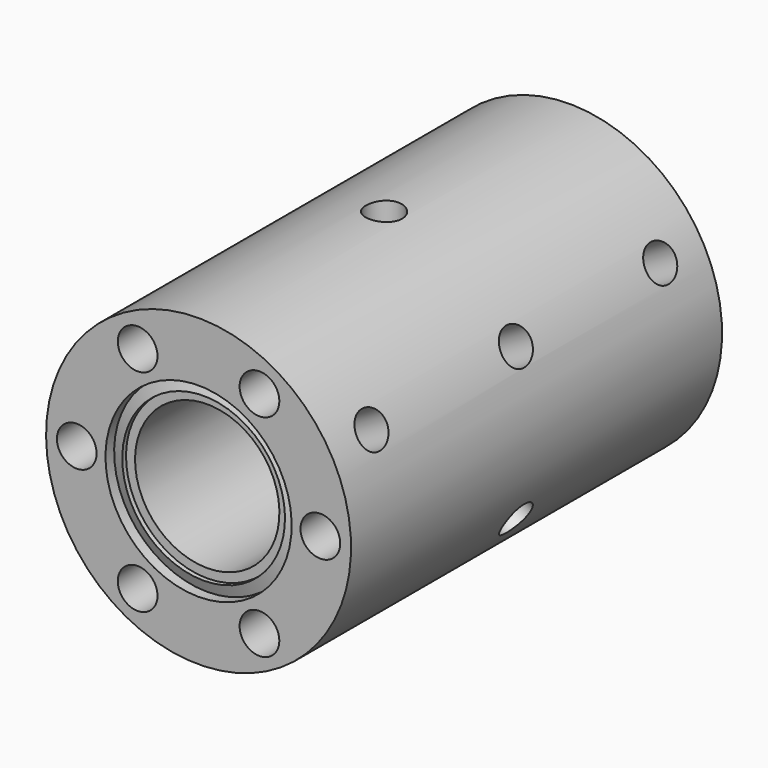
from build123d import *

# Parameters (mm, degrees)
CYLINDER011_R               = 2
CYLINDER011_DEPTH           = 10
CYLINDER010_R               = 2
CYLINDER010_DEPTH           = 10
CYLINDER009_R               = 2
CYLINDER009_DEPTH           = 10
CYLINDER009_PLACEMENT_ANGLE = -8.000003
CYLINDER008_R               = 2
CYLINDER008_DEPTH           = 10
CYLINDER007_R               = 2
CYLINDER007_DEPTH           = 10
CYLINDER006_R               = 2
CYLINDER006_DEPTH           = 10
CYLINDER005_R               = 2
CYLINDER005_DEPTH           = 10
CYLINDER004_R               = 2
CYLINDER004_DEPTH           = 10
CYLINDER003_R               = 2
CYLINDER003_DEPTH           = 10
CYLINDER002_R               = 2
CYLINDER002_DEPTH           = 10
CYLINDER001_R               = 2
CYLINDER001_DEPTH           = 10
CYLINDER001_PLACEMENT_ANGLE = 9.999992
CYLINDER_R                  = 2
CYLINDER_DEPTH              = 10
SKETCH001_R                 = 2.2
POCKET_DEPTH                = 5
SKETCH002_R                 = 2.2
POCKET001_DEPTH             = 5
CUT_PLACEMENT_ANGLE         = 119.999977
CUT001_PLACEMENT_ANGLE      = 119.999977
CUT003_PLACEMENT_ANGLE      = 119.999977
CUT004_PLACEMENT_ANGLE      = 119.999977
CUT006_PLACEMENT_ANGLE      = 119.999977
CUT007_PLACEMENT_ANGLE      = 119.999977
CUT008_PLACEMENT_ANGLE      = 60.000023
CUT009_PLACEMENT_ANGLE      = 119.999977
CUT010_PLACEMENT_ANGLE      = 119.999977


with BuildPart() as cylinder011:
    # Cylinder011 → Cylinder011 (new body)
    with BuildSketch(Plane.XY.offset(10)):
        Circle(CYLINDER011_R)
    extrude(amount=CYLINDER011_DEPTH)


with BuildPart() as cylinder010:
    # Cylinder010 → Cylinder010 (new body)
    with BuildSketch(Plane.XY.offset(10)):
        Circle(CYLINDER010_R)
    extrude(amount=CYLINDER010_DEPTH)


with BuildPart() as cylinder009:
    # Cylinder009 → Cylinder009 (new body)
    with BuildSketch(Plane.XY):
        Circle(CYLINDER009_R)
    extrude(amount=CYLINDER009_DEPTH)


with BuildPart() as cylinder009_1:
    # Cylinder009 placement: moved
    add(cylinder009.part.moved(Location((0, 0, 10))).rotate(Axis((0, 0, 10), (0, 0, 1)), CYLINDER009_PLACEMENT_ANGLE))


with BuildPart() as cylinder008:
    # Cylinder008 → Cylinder008 (new body)
    with BuildSketch(Plane(origin=(0, -20, 10), x_dir=(1, 0, 0), z_dir=(0, 0, 1))):
        Circle(CYLINDER008_R)
    extrude(amount=CYLINDER008_DEPTH)


with BuildPart() as cylinder007:
    # Cylinder007 → Cylinder007 (new body)
    with BuildSketch(Plane(origin=(0, -20, 10), x_dir=(1, 0, 0), z_dir=(0, 0, 1))):
        Circle(CYLINDER007_R)
    extrude(amount=CYLINDER007_DEPTH)


with BuildPart() as cylinder006:
    # Cylinder006 → Cylinder006 (new body)
    with BuildSketch(Plane(origin=(0, -20, 10), x_dir=(1, 0, 0), z_dir=(0, 0, 1))):
        Circle(CYLINDER006_R)
    extrude(amount=CYLINDER006_DEPTH)


with BuildPart() as cylinder005:
    # Cylinder005 → Cylinder005 (new body)
    with BuildSketch(Plane(origin=(0, 20, 10), x_dir=(1, 0, 0), z_dir=(0, 0, 1))):
        Circle(CYLINDER005_R)
    extrude(amount=CYLINDER005_DEPTH)


with BuildPart() as cylinder004:
    # Cylinder004 → Cylinder004 (new body)
    with BuildSketch(Plane(origin=(0, 20, 10), x_dir=(1, 0, 0), z_dir=(0, 0, 1))):
        Circle(CYLINDER004_R)
    extrude(amount=CYLINDER004_DEPTH)


with BuildPart() as cylinder003:
    # Cylinder003 → Cylinder003 (new body)
    with BuildSketch(Plane(origin=(0, 20, 10), x_dir=(1, 0, 0), z_dir=(0, 0, 1))):
        Circle(CYLINDER003_R)
    extrude(amount=CYLINDER003_DEPTH)


with BuildPart() as cylinder002:
    # Cylinder002 → Cylinder002 (new body)
    with BuildSketch(Plane.XY.offset(10)):
        Circle(CYLINDER002_R)
    extrude(amount=CYLINDER002_DEPTH)


with BuildPart() as cylinder001:
    # Cylinder001 → Cylinder001 (new body)
    with BuildSketch(Plane.XY):
        Circle(CYLINDER001_R)
    extrude(amount=CYLINDER001_DEPTH)


with BuildPart() as cylinder001_1:
    # Cylinder001 placement: moved
    add(cylinder001.part.moved(Location((0, 0, 10))).rotate(Axis((0, 0, 10), (0, 0, 1)), CYLINDER001_PLACEMENT_ANGLE))


with BuildPart() as cylinder:
    # Cylinder → Cylinder (new body)
    with BuildSketch(Plane.XY.offset(10)):
        Circle(CYLINDER_R)
    extrude(amount=CYLINDER_DEPTH)


with BuildPart() as cut011:
    # Sketch → Revolution (revolve)
    with BuildSketch(Plane.YZ):
        Polygon((-24.5, 8), (-24.5, 9), (-25, 9.01746), (-24.5, 10.31746), (-25.7, 10.31746), (-25.7, 16.9), (25.7, 16.9), (25.7, 10.31746), (24.5, 10.31746), (25, 9.01746), (24.5, 9), (24.5, 8), align=None)
    revolve(axis=Axis((0, 0, 0), (0, 1, 0)))

    # Sketch001 → Pocket (cut)
    with BuildSketch(Plane(origin=(0, -25.7, 0), x_dir=(0, 0, -1), z_dir=(0, -1, 0))):
        with Locations((-11.691342, 6.750002)):
            Circle(SKETCH001_R)
        with Locations((-11.691342, -6.750002)):
            Circle(SKETCH001_R)
        with Locations((0, -13.5)):
            Circle(SKETCH001_R)
        with Locations((11.691342, -6.750002)):
            Circle(SKETCH001_R)
        with Locations((11.691342, 6.750002)):
            Circle(SKETCH001_R)
        with Locations((0, 13.5)):
            Circle(SKETCH001_R)
    extrude(amount=-POCKET_DEPTH, mode=Mode.SUBTRACT)

    # Sketch002 → Pocket001 (cut)
    with BuildSketch(Plane.ZX.offset(25.7)):
        with Locations((0, 13.5)):
            Circle(SKETCH002_R)
        with Locations((11.691342, 6.750002)):
            Circle(SKETCH002_R)
        with Locations((11.691342, -6.750002)):
            Circle(SKETCH002_R)
        with Locations((0, -13.5)):
            Circle(SKETCH002_R)
        with Locations((-11.691342, -6.750002)):
            Circle(SKETCH002_R)
        with Locations((-11.691342, 6.750002)):
            Circle(SKETCH002_R)
    extrude(amount=-POCKET001_DEPTH, mode=Mode.SUBTRACT)

    # Cut: cut Cylinder
    add(cylinder.part, mode=Mode.SUBTRACT)


with BuildPart() as cut011_1:
    # Cut placement: moved
    add(cut011.part.rotate(Axis((0, 0, 0), (0, 1, 0)), CUT_PLACEMENT_ANGLE))

    # Cut001: cut Cylinder001
    add(cylinder001_1.part, mode=Mode.SUBTRACT)


with BuildPart() as cut011_2:
    # Cut001 placement: moved
    add(cut011_1.part.rotate(Axis((0, 0, 0), (0, 1, 0)), CUT001_PLACEMENT_ANGLE))

    # Cut002: cut Cylinder002
    add(cylinder002.part, mode=Mode.SUBTRACT)

    # Cut003: cut Cylinder003
    add(cylinder003.part, mode=Mode.SUBTRACT)


with BuildPart() as cut011_3:
    # Cut003 placement: moved
    add(cut011_2.part.rotate(Axis((0, 0, 0), (0, 1, 0)), CUT003_PLACEMENT_ANGLE))

    # Cut004: cut Cylinder004
    add(cylinder004.part, mode=Mode.SUBTRACT)


with BuildPart() as cut011_4:
    # Cut004 placement: moved
    add(cut011_3.part.rotate(Axis((0, 0, 0), (0, 1, 0)), CUT004_PLACEMENT_ANGLE))

    # Cut005: cut Cylinder005
    add(cylinder005.part, mode=Mode.SUBTRACT)

    # Cut006: cut Cylinder006
    add(cylinder006.part, mode=Mode.SUBTRACT)


with BuildPart() as cut011_5:
    # Cut006 placement: moved
    add(cut011_4.part.rotate(Axis((0, 0, 0), (0, 1, 0)), CUT006_PLACEMENT_ANGLE))

    # Cut007: cut Cylinder007
    add(cylinder007.part, mode=Mode.SUBTRACT)


with BuildPart() as cut011_6:
    # Cut007 placement: moved
    add(cut011_5.part.rotate(Axis((0, 0, 0), (0, 1, 0)), CUT007_PLACEMENT_ANGLE))

    # Cut008: cut Cylinder008
    add(cylinder008.part, mode=Mode.SUBTRACT)


with BuildPart() as cut011_7:
    # Cut008 placement: moved
    add(cut011_6.part.rotate(Axis((0, 0, 0), (0, 1, 0)), CUT008_PLACEMENT_ANGLE))

    # Cut009: cut Cylinder009
    add(cylinder009_1.part, mode=Mode.SUBTRACT)


with BuildPart() as cut011_8:
    # Cut009 placement: moved
    add(cut011_7.part.rotate(Axis((0, 0, 0), (0, 1, 0)), CUT009_PLACEMENT_ANGLE))

    # Cut010: cut Cylinder010
    add(cylinder010.part, mode=Mode.SUBTRACT)


with BuildPart() as cut011_9:
    # Cut010 placement: moved
    add(cut011_8.part.rotate(Axis((0, 0, 0), (0, 1, 0)), CUT010_PLACEMENT_ANGLE))

    # Cut011: cut Cylinder011
    add(cylinder011.part, mode=Mode.SUBTRACT)


solid = cut011_9.part
